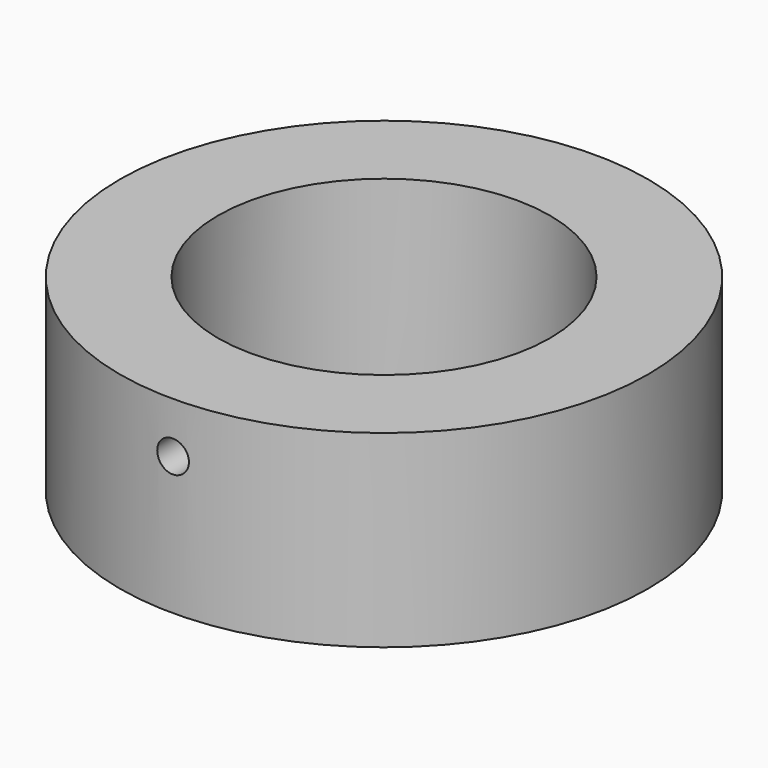
from build123d import *

# Parameters (mm, degrees)
F0_R     = 35
F0_R_2   = 22
F1_DEPTH = 25
F3_D     = 4.2
F3_DEPTH = 35.001


with BuildPart() as f1:
    # F0 (on Top) → F1 (new body)
    with BuildSketch(Plane.XY):
        Circle(F0_R)
        Circle(F0_R_2, mode=Mode.SUBTRACT)
    extrude(amount=F1_DEPTH)

    # F3 (through all, one way)
    with BuildSketch(Plane(origin=(0, 0, 0), x_dir=(1, 0, 0), z_dir=(0, 1, 0))):
        with Locations((0, -18.2790998369)):
            Circle(F3_D / 2)
    extrude(amount=-F3_DEPTH, mode=Mode.SUBTRACT)


solid = f1.part
